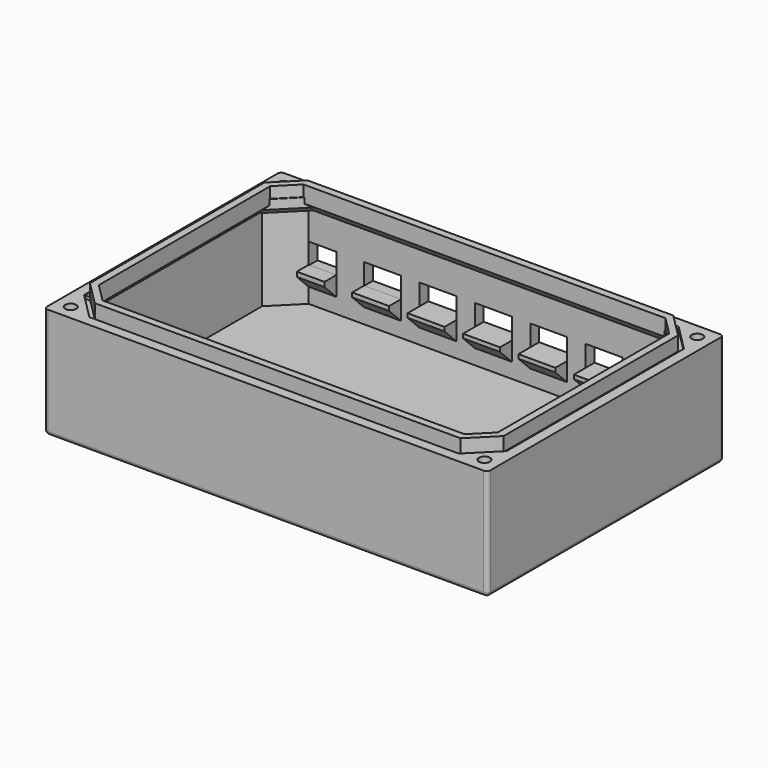
from build123d import *

# Parameters (mm, degrees)
SKETCH_W           = 120
SKETCH_H           = 80
PAD_DEPTH          = 30
SKETCH001_R        = 1.5
POCKET_DEPTH       = 27
POCKET001_DEPTH    = 7.5
FILLET_R           = 1
SKETCH003_W        = 10
SKETCH003_H        = 5.7
SKETCH003_W_2      = 7.5
POCKET002_DEPTH    = 5
SKETCH005_W        = 10
SKETCH005_H        = 5
SKETCH005_W_2      = 9.995621
SKETCH005_H_2      = 5.068917
SKETCH005_W_3      = 7.5
SKETCH005_H_3      = 5.156497
PAD002_DEPTH       = 4
SKETCH006_W        = 100
SKETCH006_H        = 4
PAD003_DEPTH       = 3
COPYSKETCH007_W    = 100
COPYSKETCH007_H    = 4
PAD004_DEPTH       = 3
SKETCH007_W        = 60
SKETCH007_H        = 4
PAD005_DEPTH       = 3
SKETCH009_W        = 10
SKETCH009_H        = 4
PAD007_DEPTH       = 3
COPYSKETCH010_W    = 10
COPYSKETCH010_H    = 4
PAD008_DEPTH       = 3
COPYSKETCH010001_W = 10
COPYSKETCH010001_H = 4
PAD009_DEPTH       = 3
COPYSKETCH010002_W = 10
COPYSKETCH010002_H = 4
PAD010_DEPTH       = 3
POCKET003_DEPTH    = 0.8
PAD011_DEPTH       = 3
SKETCH008_W        = 60
SKETCH008_H        = 4
PAD012_DEPTH       = 3
CHAMFER_SIZE       = 3.9
CHAMFER001_SIZE    = 2.5
CHAMFER002_SIZE    = 2.5
CHAMFER003_SIZE    = 2.5
CHAMFER004_SIZE    = 2.5
CHAMFER005_SIZE    = 1.48
CHAMFER006_SIZE    = 1.48
CHAMFER007_SIZE    = 1.48
CHAMFER008_SIZE    = 1.48
SKETCH012_R        = 3
SKETCH012_R_2      = 0.95
PAD013_DEPTH       = 5


with BuildPart() as part:
    # Sketch → Pad (new body)
    with BuildSketch(Plane.XY):
        Rectangle(SKETCH_W, SKETCH_H)
    extrude(amount=PAD_DEPTH)

    # Sketch001 (on Face6 of Pad) → Pocket (cut)
    with BuildSketch(Plane.XY.offset(30)):
        with Locations((-56, 36)):
            Circle(SKETCH001_R)
        with Locations((56, 36)):
            Circle(SKETCH001_R)
        with Locations((-56, -36)):
            Circle(SKETCH001_R)
        with Locations((56, -36)):
            Circle(SKETCH001_R)
        Polygon((50, 37), (-50, 37), (-57, 30), (-57, -30), (-50, -37), (50, -37), (57, -30), (57, 30), align=None)
    extrude(amount=-POCKET_DEPTH, mode=Mode.SUBTRACT)

    # Sketch002 (on Face4 of Pocket) → Pocket001 (cut)
    with BuildSketch(Plane(origin=(0, 0, 0), x_dir=(1, 0, 0), z_dir=(0, 0, -1))):
        Polygon((-54.45, 33.315321), (-52.9, 36), (-54.45, 38.684679), (-57.55, 38.684679), (-59.1, 36), (-57.55, 33.315321), align=None)
        Polygon((52.928139, 36.416737), (54.103164, 33.548059), (57.175025, 33.131322), (59.071861, 35.583263), (57.896836, 38.451941), (54.824975, 38.868678), align=None)
        Polygon((-52.952784, -36.569628), (-53.98308, -33.645848), (-57.030296, -33.07622), (-59.047216, -35.430372), (-58.01692, -38.354152), (-54.969704, -38.92378), align=None)
        Polygon((55.147309, -33.019578), (52.992533, -35.248241), (53.845224, -38.228663), (56.852691, -38.980422), (59.007467, -36.751759), (58.154776, -33.771337), align=None)
    extrude(amount=-POCKET001_DEPTH, mode=Mode.SUBTRACT)

    # Fillet
    fillet_edges = [part.edges().sort_by_distance(p)[0] for p in [
        (60, 40, 15),
        (0, 40, 0),
        (-60, 40, 15),
        (-60, 0, 0),
        (-60, -40, 15),
        (0, -40, 0),
        (60, -40, 15),
        (60, 0, 0),
    ]]
    fillet(fillet_edges, radius=FILLET_R)

    # Sketch003 (on Face1 of Fillet) → Pocket002 (cut)
    with BuildSketch(Plane(origin=(0, 40, 0), x_dir=(-1, 0, 0), z_dir=(0, 1, 0))):
        with Locations((-45, 15)):
            Rectangle(SKETCH003_W, SKETCH003_H)
        with Locations((-30, 15)):
            Rectangle(SKETCH003_W, SKETCH003_H)
        with Locations((-15, 15)):
            Rectangle(SKETCH003_W, SKETCH003_H)
        with Locations((0, 15)):
            Rectangle(SKETCH003_W, SKETCH003_H)
        with Locations((15, 15)):
            Rectangle(SKETCH003_W, SKETCH003_H)
        with Locations((30, 15)):
            Rectangle(SKETCH003_W, SKETCH003_H)
        with Locations((46.25, 15)):
            Rectangle(SKETCH003_W_2, SKETCH003_H)
    extrude(amount=-POCKET002_DEPTH, mode=Mode.SUBTRACT)

    # Sketch005 → Pad002 (join)
    with BuildSketch(Plane.XZ.offset(-37)):
        with Locations((0, 9.65)):
            Rectangle(SKETCH005_W, SKETCH005_H)
        with Locations((15, 9.65)):
            Rectangle(SKETCH005_W, SKETCH005_H)
        with Locations((30, 9.65)):
            Rectangle(SKETCH005_W, SKETCH005_H)
        with Locations((45, 9.65)):
            Rectangle(SKETCH005_W, SKETCH005_H)
        with Locations((-15, 9.65)):
            Rectangle(SKETCH005_W, SKETCH005_H)
        with Locations((-30.00219, 9.684458)):
            Rectangle(SKETCH005_W_2, SKETCH005_H_2)
        with Locations((-46.25, 9.728248)):
            Rectangle(SKETCH005_W_3, SKETCH005_H_3)
    extrude(amount=PAD002_DEPTH)

    # Sketch006 → Pad003 (join)
    with BuildSketch(Plane(origin=(0, -37, 0), x_dir=(-1, 0, 0), z_dir=(0, 1, 0))):
        with Locations((0, 28)):
            Rectangle(SKETCH006_W, SKETCH006_H)
    extrude(amount=PAD003_DEPTH)

    # CopySketch007 → Pad004 (join)
    with BuildSketch(Plane.XZ.offset(-37)):
        with Locations((0, 28)):
            Rectangle(COPYSKETCH007_W, COPYSKETCH007_H)
    extrude(amount=PAD004_DEPTH)

    # Sketch007 → Pad005 (join)
    with BuildSketch(Plane(origin=(57, 0, 0), x_dir=(0, -1, 0), z_dir=(-1, 0, 0))):
        with Locations((0, 28)):
            Rectangle(SKETCH007_W, SKETCH007_H)
    extrude(amount=PAD005_DEPTH)

    # Sketch009 → Pad007 (join)
    with BuildSketch(Plane(origin=(-43.5, 43.5, 0), x_dir=(0.707107, 0.707107, 0), z_dir=(0.707107, -0.707107, 0))):
        with Locations((-14, 28)):
            Rectangle(SKETCH009_W, SKETCH009_H)
    extrude(amount=PAD007_DEPTH)

    # CopySketch010 → Pad008 (join)
    with BuildSketch(Plane(origin=(-43.5, -43.5, 0), x_dir=(-0.707107, 0.707107, 0), z_dir=(0.707107, 0.707107, 0))):
        with Locations((14, 28)):
            Rectangle(COPYSKETCH010_W, COPYSKETCH010_H)
    extrude(amount=PAD008_DEPTH)

    # CopySketch010001 → Pad009 (join)
    with BuildSketch(Plane(origin=(43.5, -43.5, 0), x_dir=(-0.707107, -0.707107, 0), z_dir=(-0.707107, 0.707107, 0))):
        with Locations((-14, 28)):
            Rectangle(COPYSKETCH010001_W, COPYSKETCH010001_H)
    extrude(amount=PAD009_DEPTH)

    # CopySketch010002 → Pad010 (join)
    with BuildSketch(Plane(origin=(43.5, 43.5, 0), x_dir=(0.707107, -0.707107, 0), z_dir=(-0.707107, -0.707107, 0))):
        with Locations((14, 28)):
            Rectangle(COPYSKETCH010002_W, COPYSKETCH010002_H)
    extrude(amount=PAD010_DEPTH)

    # Sketch010 → Pocket003 (cut)
    with BuildSketch(Plane.XY.offset(30)):
        Polygon((-50, 37.2), (50, 37.2), (57.2, 30), (57.2, -30), (50, -37.2), (-50, -37.2), (-57.2, -30), (-57.2, 30), align=None)
        Polygon((-49.5, 36), (49.5, 36), (56, 29.5), (56, -29.5), (49.5, -36), (-49.5, -36), (-56, -29.5), (-56, 29.5), align=None, mode=Mode.SUBTRACT)
    extrude(amount=-POCKET003_DEPTH, mode=Mode.SUBTRACT)

    # Sketch011 → Pad011 (join)
    with BuildSketch(Plane.XY.offset(30)):
        Polygon((-49.5, 36), (49.5, 36), (56, 29.5), (56, -29.5), (49.5, -36), (-49.5, -36), (-56, -29.5), (-56, 29.5), align=None)
        Polygon((-49, 34), (49, 34), (54, 29), (54, -29), (49, -34), (-49, -34), (-54, -29), (-54, 29), align=None, mode=Mode.SUBTRACT)
    extrude(amount=PAD011_DEPTH)

    # Sketch008 (on Face141 of Pad011) → Pad012 (join)
    with BuildSketch(Plane.YZ.offset(-57)):
        with Locations((0, 28)):
            Rectangle(SKETCH008_W, SKETCH008_H)
    extrude(amount=PAD012_DEPTH)

    # Chamfer
    chamfer_edges = [part.edges().sort_by_distance(p)[0] for p in [
        (45, 33, 7.15),
        (30, 33, 7.15),
        (15, 33, 7.15),
        (0, 33, 7.15),
        (-15, 33, 7.15),
        (-30.00219, 33, 7.15),
        (-46.25, 33, 7.15),
    ]]
    chamfer(chamfer_edges, length=CHAMFER_SIZE)

    # Chamfer001
    chamfer001_edges = [part.edges().sort_by_distance(p)[0] for p in [
        (0, -34, 26),
    ]]
    chamfer(chamfer001_edges, length=CHAMFER001_SIZE)

    # Chamfer002
    chamfer002_edges = [part.edges().sort_by_distance(p)[0] for p in [
        (0, 34, 26),
    ]]
    chamfer(chamfer002_edges, length=CHAMFER002_SIZE)

    # Chamfer003
    chamfer003_edges = [part.edges().sort_by_distance(p)[0] for p in [
        (-54, 0, 26),
    ]]
    chamfer(chamfer003_edges, length=CHAMFER003_SIZE)

    # Chamfer004
    chamfer004_edges = [part.edges().sort_by_distance(p)[0] for p in [
        (54, 0, 26),
    ]]
    chamfer(chamfer004_edges, length=CHAMFER004_SIZE)

    # Chamfer005
    chamfer005_edges = [part.edges().sort_by_distance(p)[0] for p in [
        (51.37868, -31.37868, 26),
    ]]
    chamfer(chamfer005_edges, length=CHAMFER005_SIZE)

    # Chamfer006
    chamfer006_edges = [part.edges().sort_by_distance(p)[0] for p in [
        (-51.37868, -31.37868, 26),
    ]]
    chamfer(chamfer006_edges, length=CHAMFER006_SIZE)

    # Chamfer007
    chamfer007_edges = [part.edges().sort_by_distance(p)[0] for p in [
        (-51.37868, 31.37868, 26),
    ]]
    chamfer(chamfer007_edges, length=CHAMFER007_SIZE)

    # Chamfer008
    chamfer008_edges = [part.edges().sort_by_distance(p)[0] for p in [
        (51.37868, 31.37868, 26),
    ]]
    chamfer(chamfer008_edges, length=CHAMFER008_SIZE)

    # Sketch012 (on Face40 of Chamfer008) → Pad013 (join)
    with BuildSketch(Plane.XY.offset(3)):
        with Locations((-17, -27.3)):
            Circle(SKETCH012_R)
        with Locations((-17, -27.3)):
            Circle(SKETCH012_R_2, mode=Mode.SUBTRACT)
        with Locations((48, -27.3)):
            Circle(SKETCH012_R)
        with Locations((48, -27.3)):
            Circle(SKETCH012_R_2, mode=Mode.SUBTRACT)
        with Locations((-17, -2)):
            Circle(SKETCH012_R)
        with Locations((-17, -2)):
            Circle(SKETCH012_R_2, mode=Mode.SUBTRACT)
        with Locations((48, -2)):
            Circle(SKETCH012_R)
        with Locations((48, -2)):
            Circle(SKETCH012_R_2, mode=Mode.SUBTRACT)
    extrude(amount=PAD013_DEPTH)


solid = part.part
